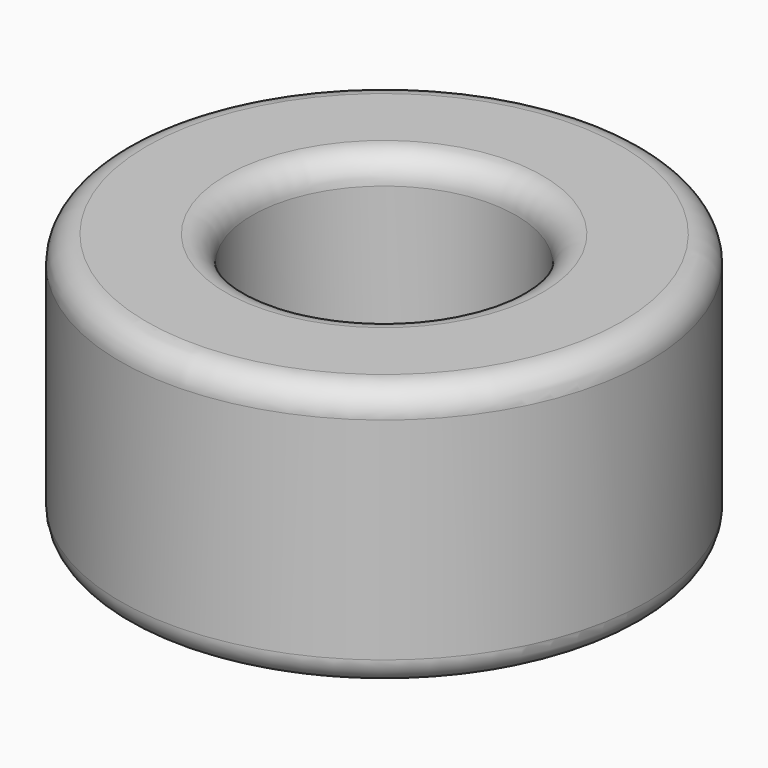
from build123d import *

# Parameters (mm, degrees)
F0_R     = 50.8
F1_DEPTH = 50.8
F2_R     = 25.4
F3_DEPTH = 50.8
F4_R     = 5.08
F5_R     = 5.08


with BuildPart() as f1:
    # F0 (on Top) → F1 (new body)
    with BuildSketch(Plane.XY):
        Circle(F0_R)
    extrude(amount=-F1_DEPTH)

    # F2 (on Top) → F3 (cut)
    with BuildSketch(Plane.XY):
        Circle(F2_R)
    extrude(amount=-F3_DEPTH, mode=Mode.SUBTRACT)

    # F4
    f4_edges = [f1.edges().sort_by_distance(p)[0] for p in [
        (-50.8, 0, 0),
        (-25.4, 0, 0),
    ]]
    fillet(f4_edges, radius=F4_R)

    # F5
    f5_edges = [f1.edges().sort_by_distance(p)[0] for p in [
        (-50.8, 0, -50.8),
        (-25.4, 0, -50.8),
    ]]
    fillet(f5_edges, radius=F5_R)


solid = f1.part
